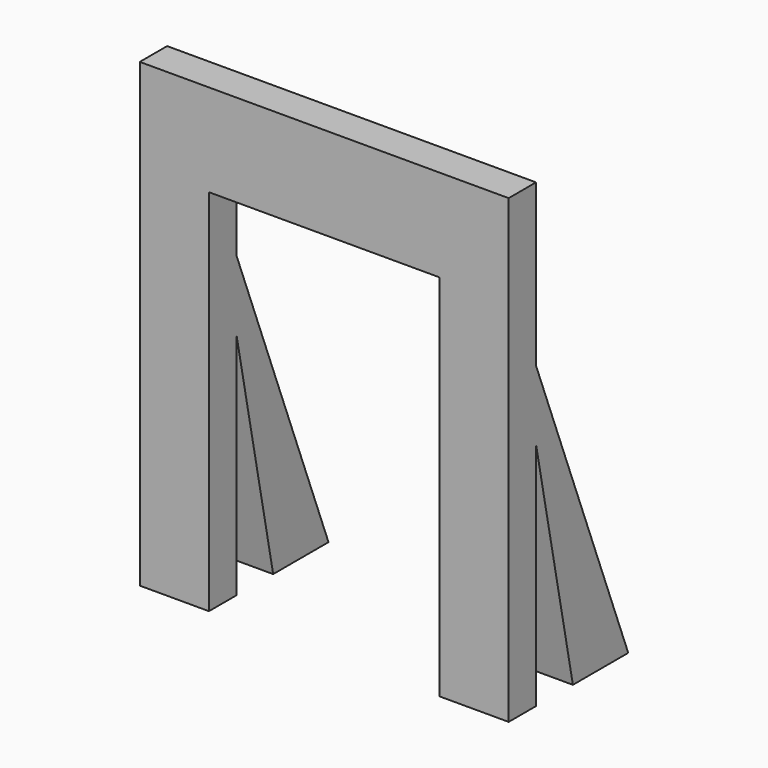
from build123d import *

# Parameters (mm, degrees)
F1_W     = 19.05
F1_H     = 19.05
F0_W     = 19.05
F0_H     = 19.05
F0_H_2   = 25.4
F0_W_2   = 63.5
F0_H_3   = 63.5
F4_DEPTH = 9.4144362956


with BuildPart() as f2:
    # F1 (on Top) → F2 section 0
    with BuildSketch(Plane.XY):
        with Locations((44.9054742098, 22.225)):
            Rectangle(F1_W, F1_H)
    # F0 (on Front) → F2 section 1
    with BuildSketch(Plane.XZ):
        with Locations((44.9054742098, 73.025)):
            Rectangle(F0_W, F0_H)
    loft()



with BuildPart() as f3:
    # F1 (on Top) → F3 section 0
    with BuildSketch(Plane.XY):
        with Locations((-37.6445257902, 22.225)):
            Rectangle(F1_W, F1_H)
    # F0 (on Front) → F3 section 1
    with BuildSketch(Plane.XZ):
        with Locations((-37.6445257902, 73.025)):
            Rectangle(F0_W, F0_H)
    loft()


with BuildPart() as f2_1:
    add(f2.part)

    add(f3.part)  # F4 merges F3
    # F0 (on Front) → F4 (join)
    with BuildSketch(Plane.XZ):
        with Locations((-37.6445257902, 92.075)):
            Rectangle(F0_W, F0_H)
        with Locations((-37.6445257902, 114.3)):
            Rectangle(F0_W, F0_H_2)
        with Locations((3.6304742098, 114.3)):
            Rectangle(F0_W_2, F0_H_2)
        with Locations((44.9054742098, 114.3)):
            Rectangle(F0_W, F0_H_2)
        with Locations((44.9054742098, 92.075)):
            Rectangle(F0_W, F0_H)
        with Locations((-37.6445257902, 31.75)):
            Rectangle(F0_W, F0_H_3)
        with Locations((-37.6445257902, 73.025)):
            Rectangle(F0_W, F0_H)
        with Locations((44.9054742098, 31.75)):
            Rectangle(F0_W, F0_H_3)
        with Locations((44.9054742098, 73.025)):
            Rectangle(F0_W, F0_H)
    extrude(amount=F4_DEPTH)


solid = f2_1.part
